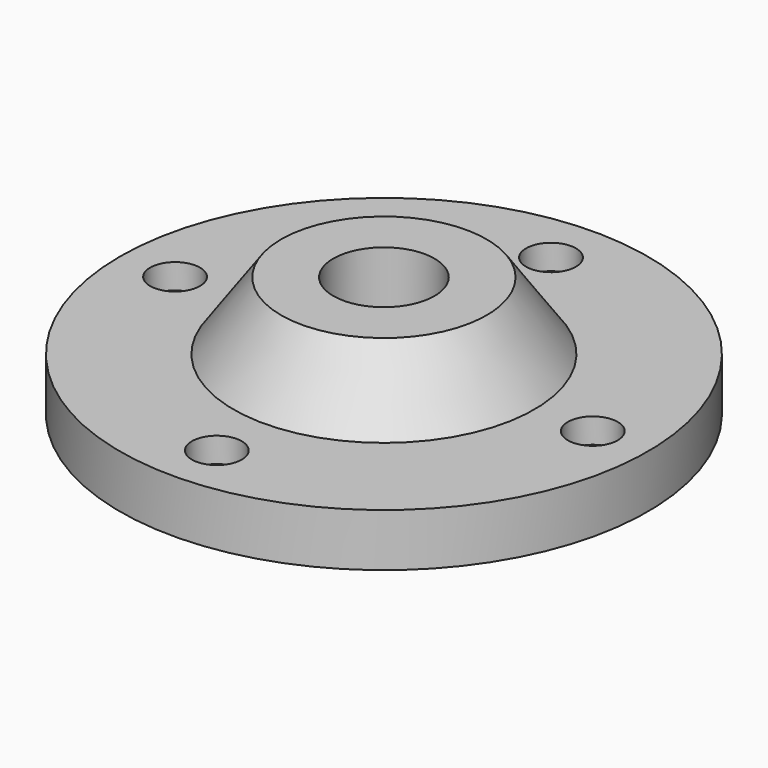
from build123d import *

# Parameters (mm, degrees)
F3_D           = 7
F3_CBORE_D     = 10
F3_CBORE_DEPTH = 5


with BuildPart() as f1:
    # F0 (on Front) → F1 (revolve)
    with BuildSketch(Plane.XZ):
        Polygon((-52.917331, 0), (-10.152745, 0), (-10.152745, 24.151227), (-20.613147, 24.151227), (-30.150574, 10.614235), (-52.917331, 10.614235), align=None)
    revolve(axis=Axis((0, 0, 4.922545), (0, 0, -1)))

    # F3 (through all)
    with Locations(Plane.XY.offset(10.614235)):
        with Locations((-41.872236, 0), (0, 41.872236), (41.872236, 0), (0, -41.872236)):
            CounterBoreHole(F3_D / 2, F3_CBORE_D / 2, F3_CBORE_DEPTH)


solid = f1.part
